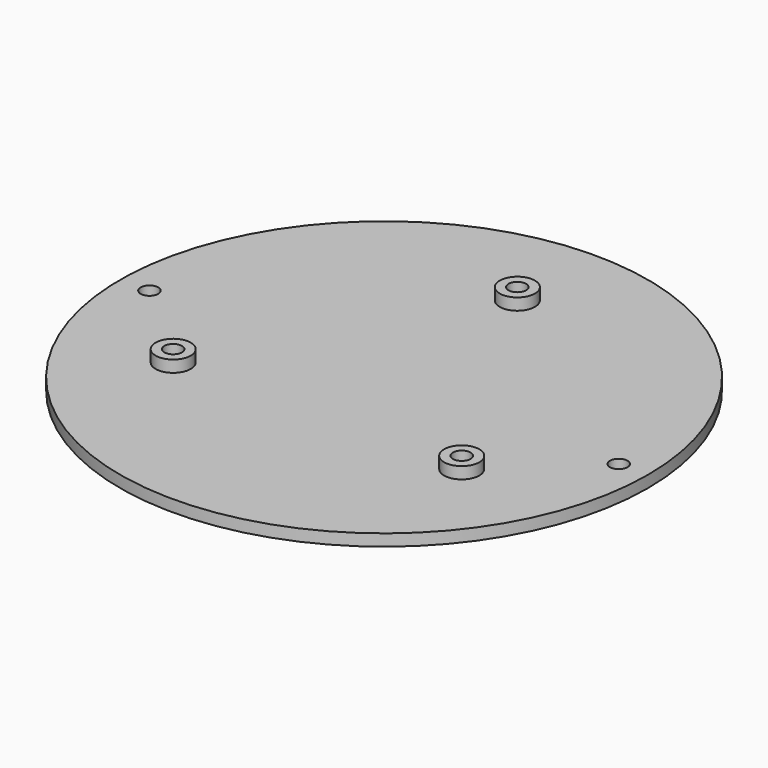
from build123d import *

# Parameters (mm, degrees)
SKETCH_R     = 45
SKETCH_R_2   = 1.5
PAD_DEPTH    = 2
SKETCH001_R  = 3
PAD001_DEPTH = 2
SKETCH002_R  = 1.5
POCKET_DEPTH = 5


with BuildPart() as part:
    # Sketch → Pad (new body)
    with BuildSketch(Plane.XY):
        Circle(SKETCH_R)
        with Locations((-40, 0)):
            Circle(SKETCH_R_2, mode=Mode.SUBTRACT)
        with Locations((40, 0)):
            Circle(SKETCH_R_2, mode=Mode.SUBTRACT)
    extrude(amount=PAD_DEPTH)

    # Sketch001 (on Face5 of Pad) → Pad001 (join)
    with BuildSketch(Plane.XY.offset(2)):
        with Locations((-24.595121, -14.2)):
            Circle(SKETCH001_R)
        with Locations((0, 28.4)):
            Circle(SKETCH001_R)
        with Locations((24.595121, -14.2)):
            Circle(SKETCH001_R)
    extrude(amount=PAD001_DEPTH)

    # Sketch002 (on Face9 of Pad001) → Pocket (cut)
    with BuildSketch(Plane.XY.offset(4)):
        with Locations((-24.595121, -14.2)):
            Circle(SKETCH002_R)
        with Locations((0, 28.4)):
            Circle(SKETCH002_R)
        with Locations((24.595121, -14.2)):
            Circle(SKETCH002_R)
    extrude(amount=-POCKET_DEPTH, mode=Mode.SUBTRACT)


solid = part.part
